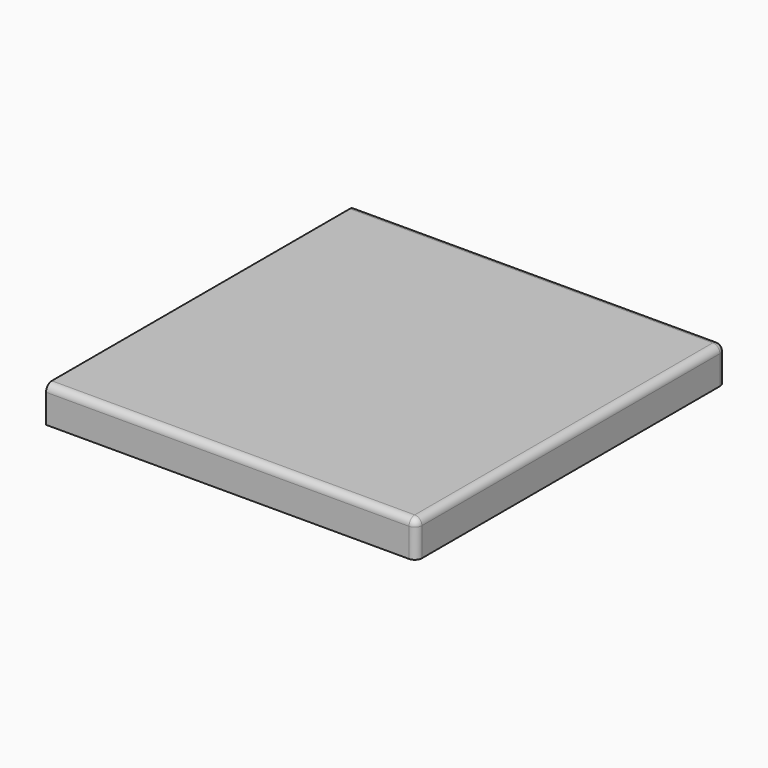
from build123d import *

# Parameters (mm, degrees)
F0_W     = 1620
F0_H     = 150.173813
F1_DEPTH = 500
F2_DEPTH = 1050
F3_R     = 30


with BuildPart() as f1:
    # F0 (on Right) → F1 (new body)
    with BuildSketch(Plane.YZ):
        with Locations((15.925775, 136.214563)):
            Rectangle(F0_W, F0_H)
    extrude(amount=-F1_DEPTH)

    # F0 (on Right) → F2 (join)
    with BuildSketch(Plane.YZ):
        with Locations((15.925775, 136.214563)):
            Rectangle(F0_W, F0_H)
    extrude(amount=F2_DEPTH)

    # F3
    f3_edges = [f1.edges().sort_by_distance(p)[0] for p in [
        (275, -794.074225, 211.30147),
        (1050, -794.074225, 136.214564),
        (1050, 15.925775, 211.30147),
        (1050, 825.925775, 136.214564),
        (275, 825.925775, 211.30147),
    ]]
    fillet(f3_edges, radius=F3_R)


solid = f1.part
